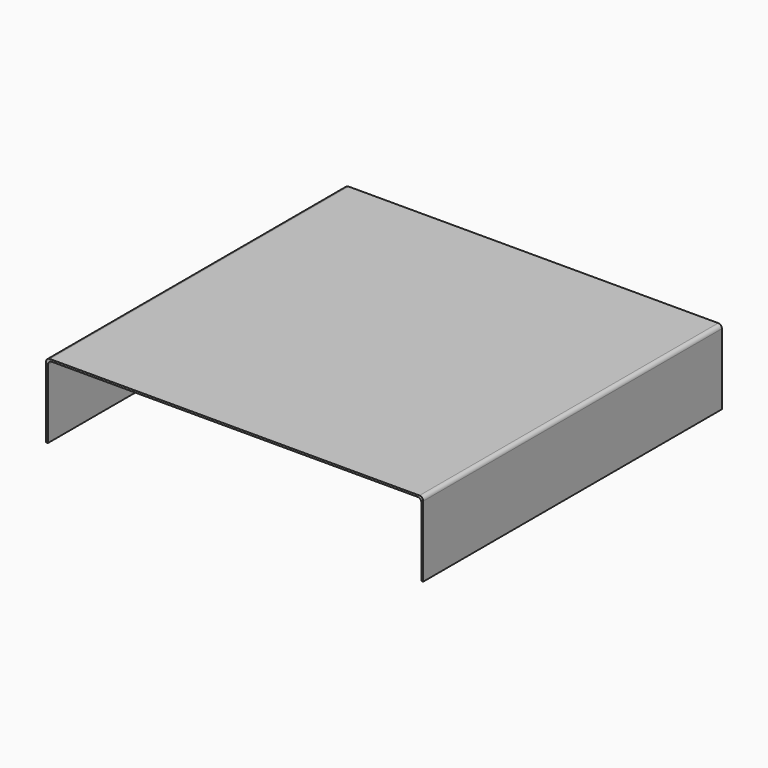
from build123d import *

# Parameters (mm, degrees)
F0_W     = 256.54
F0_H     = 50.8
F1_DEPTH = 254
F2_T     = -1.27
F3_R     = 2.54


with BuildPart() as f1:
    # F0 (on Front) → F1 (new body)
    with BuildSketch(Plane.XZ):
        Rectangle(F0_W, F0_H)
    extrude(amount=F1_DEPTH)

    # F2
    f2_openings = [f1.faces().sort_by_distance(p)[0] for p in [
        (0, -254, 0),
        (0, -127, -25.4),
        (0, 0, 0),
    ]]
    offset(amount=F2_T, openings=f2_openings)

    # F3
    f3_edges = [f1.edges().sort_by_distance(p)[0] for p in [
        (-127, -127, 24.13),
        (127, -127, 24.13),
        (128.27, -127, 25.4),
        (-128.27, -127, 25.4),
    ]]
    fillet(f3_edges, radius=F3_R)


solid = f1.part
